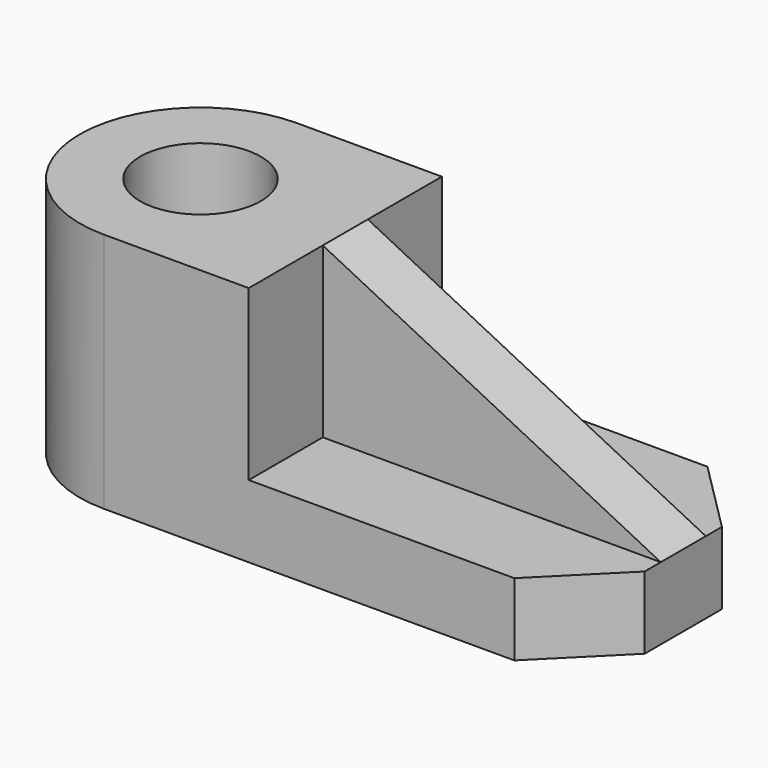
from build123d import *

# Parameters (mm, degrees)
F1_DEPTH = 9
F3_DEPTH = 21
F4_SIZE2 = 21
F4_SIZE  = 42
F6_D     = 15


with BuildPart() as f1:
    # F0 (on Top) → F1 (new body)
    with BuildSketch(Plane.XY):
        with BuildLine():
            Line((-51, 0), (0, 0))
            Line((0, 0), (9, 9))
            Line((9, 9), (9, 21))
            Line((9, 21), (0, 30))
            Line((0, 30), (-51, 30))
            ThreePointArc((-51, 30), (-66, 15), (-51, 0))
        make_face()
    extrude(amount=F1_DEPTH)

    # F2 (on face) → F3 (join)
    with BuildSketch(Plane.XY.offset(9)):
        with BuildLine():
            Line((-33, 18.5), (-33, 30))
            Line((-33, 30), (-51, 30))
            ThreePointArc((-51, 30), (-66, 15), (-51, 0))
            Line((-51, 0), (-33, 0))
            Line((-33, 0), (-33, 11.5))
            Line((-33, 11.5), (9, 11.5))
            Line((9, 11.5), (9, 18.5))
            Line((9, 18.5), (-33, 18.5))
        make_face()
    extrude(amount=F3_DEPTH)

    # F4
    f4_edges = [f1.edges().sort_by_distance(p)[0] for p in [
        (9, 15, 30),
    ]]
    f4_side = f1.faces().sort_by_distance((-39.145819, 15, 30))[0]
    chamfer(f4_edges, length=F4_SIZE, length2=F4_SIZE2, reference=f4_side)

    # F6 (through all)
    with Locations(Plane.XY.offset(30)):
        with Locations((-51, 15)):
            Hole(F6_D / 2)


solid = f1.part
